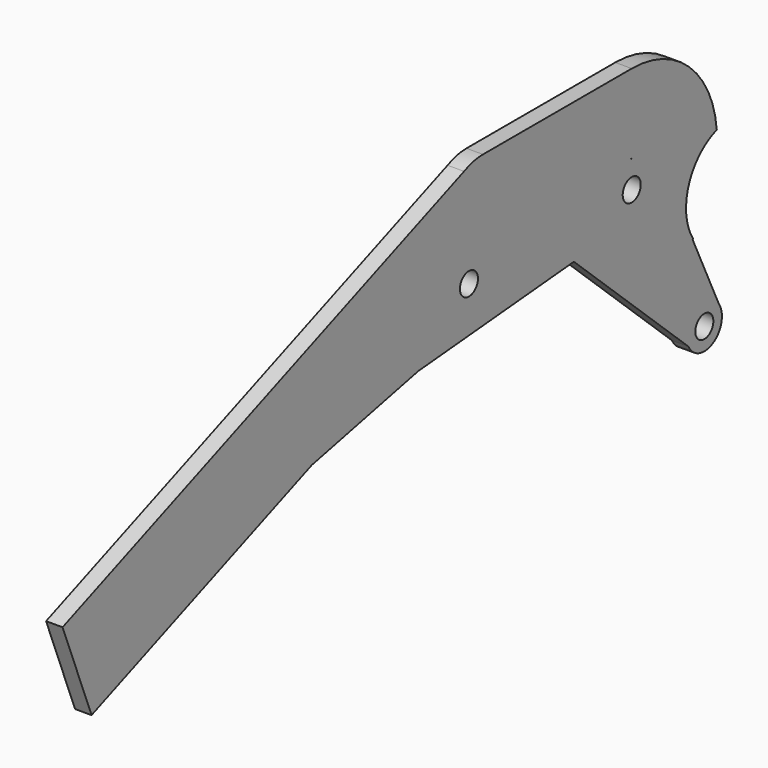
from build123d import *

# Parameters (mm, degrees)
F0_R     = 4.1
F1_DEPTH = 6


with BuildPart() as f1:
    # F0 (on Right) → F1 (new body)
    with BuildSketch(Plane.YZ):
        with BuildLine():
            ThreePointArc((38.650941, 3.477657), (26.182357, 28.643909), (0, 38.807079))
            Line((0, 38.807079), (-67.639015, 38.807079))
            ThreePointArc((-67.639015, 38.807079), (-72.035599, 38.317846), (-76.217088, 36.874084))
            Line((-76.217088, 36.874084), (-258.735079, -34.884817))
            Line((-258.735079, -34.884817), (-245.562784, -68.388409))
            Line((-245.562784, -68.388409), (-145.42112, -29.016642))
            Line((-145.42112, -29.016642), (-97.031125, -18.602828))
            Line((-97.031125, -18.602828), (-26.310196, -12.33691))
            Line((-26.310196, -12.33691), (25.842108, -60.730433))
            ThreePointArc((25.842108, -60.730433), (35.893247, -64.61617), (40.694754, -54.968896))
            Line((40.694754, -54.968896), (39.602495, -52.64026))
            Line((39.602495, -52.64026), (27.672775, -27.206743))
            ThreePointArc((27.672775, -27.206743), (27.77663, -27.100705), (27.880078, -26.99427))
            ThreePointArc((27.880078, -26.99427), (25.87205, -9.144952), (38.650941, 3.477657))
        make_face()
        with Locations((33, -57.157677)):
            Circle(F0_R, mode=Mode.SUBTRACT)
        with Locations((-74, 0)):
            Circle(F0_R, mode=Mode.SUBTRACT)
        Circle(F0_R, mode=Mode.SUBTRACT)
        with BuildLine():
            Line((0, 10.13316), (0, 10))
            Line((0, 10), (-0.71789, 10))
            ThreePointArc((-0.71789, 10), (-0.359845, 10.071434), (0, 10.13316))
        make_face(mode=Mode.SUBTRACT)
        with BuildLine():
            ThreePointArc((40.694754, -54.968896), (40.242822, -53.760394), (39.602495, -52.64026))
            Line((39.602495, -52.64026), (40.694754, -54.968896))
        make_face()
        with BuildLine():
            ThreePointArc((38.650941, 3.477657), (26.182357, 28.643909), (0, 38.807079))
            Line((0, 38.807079), (-67.639015, 38.807079))
            ThreePointArc((-67.639015, 38.807079), (-72.035599, 38.317846), (-76.217088, 36.874084))
            Line((-76.217088, 36.874084), (-258.735079, -34.884817))
            Line((-258.735079, -34.884817), (-245.562784, -68.388409))
            Line((-245.562784, -68.388409), (-145.42112, -29.016642))
            Line((-145.42112, -29.016642), (-97.031125, -18.602828))
            Line((-97.031125, -18.602828), (-26.310196, -12.33691))
            Line((-26.310196, -12.33691), (25.842108, -60.730433))
            ThreePointArc((25.842108, -60.730433), (35.893247, -64.61617), (40.694754, -54.968896))
            Line((40.694754, -54.968896), (39.602495, -52.64026))
            Line((39.602495, -52.64026), (27.672775, -27.206743))
            ThreePointArc((27.672775, -27.206743), (27.77663, -27.100705), (27.880078, -26.99427))
            ThreePointArc((27.880078, -26.99427), (25.87205, -9.144952), (38.650941, 3.477657))
        make_face()
        with Locations((33, -57.157677)):
            Circle(F0_R, mode=Mode.SUBTRACT)
        with Locations((-74, 0)):
            Circle(F0_R, mode=Mode.SUBTRACT)
        Circle(F0_R, mode=Mode.SUBTRACT)
        with BuildLine():
            Line((0, 10.13316), (0, 10))
            Line((0, 10), (-0.71789, 10))
            ThreePointArc((-0.71789, 10), (-0.359845, 10.071434), (0, 10.13316))
        make_face(mode=Mode.SUBTRACT)
    extrude(amount=F1_DEPTH)


solid = f1.part
